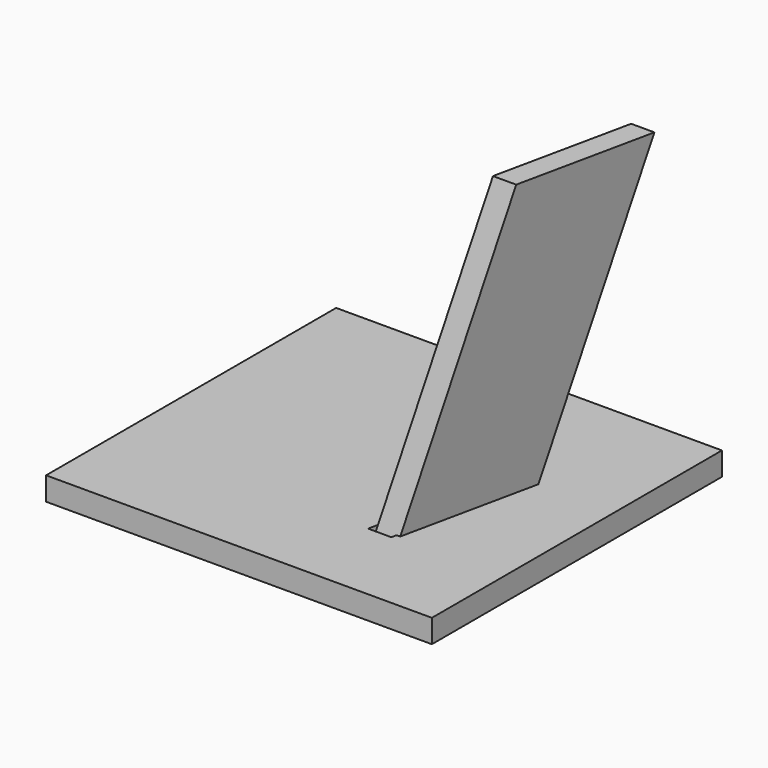
from build123d import *

# Parameters (mm, degrees)
F0_W     = 82.9521608768
F0_H     = 77.9523070946
F4_DEPTH = 5


with BuildPart() as f3:
    # F0 (on Top) → F3 section 0
    with BuildSketch(Plane.XY):
        Polygon((19.0778917798, 9.0041023762), (12.8405410553, -20.3403256458), (17.8405410553, -20.3403256458), (24.0778917798, 9.0041023762), align=None)
    # F2 (on offset) → F3 section 1
    with BuildSketch(Plane.XY.offset(70)):
        Polygon((38.3778917798, 24.7041023762), (33.3778917798, 24.7041023762), (27.1405410553, -4.6403256458), (32.1405410553, -4.6403256458), align=None)
    loft()


with BuildPart() as f4:
    # F0 (on Top) → F4 (new body)
    with BuildSketch(Plane.XY):
        Rectangle(F0_W, F0_H)
        Polygon((17.8405410553, -20.3403256458), (12.8405410553, -20.3403256458), (19.0778917798, 9.0041023762), (24.0778917798, 9.0041023762), align=None, mode=Mode.SUBTRACT)
    extrude(amount=F4_DEPTH)


solid = Compound([f3.part, f4.part])
